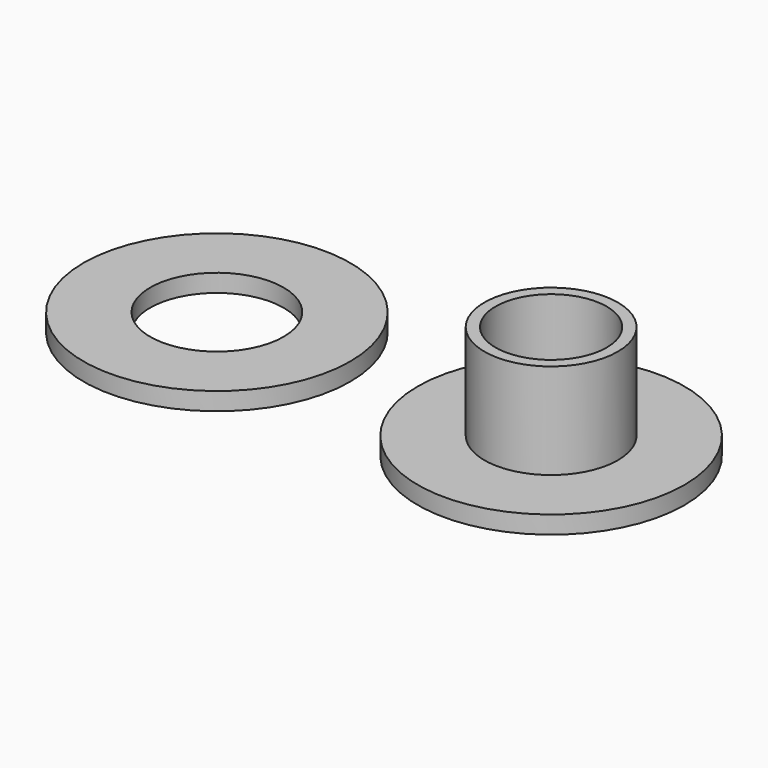
from build123d import *

# Parameters (mm, degrees)
F0_R     = 38.1
F0_R_2   = 19.05
F1_DEPTH = 5.08
F0_R_3   = 15.875
F2_DEPTH = 32.385


with BuildPart() as f1:
    # F0 (on Top) → F1 (new body)
    with BuildSketch(Plane.XY):
        with Locations((34.040067, 0)):
            Circle(F0_R)
        with Locations((34.040067, 0)):
            Circle(F0_R_2, mode=Mode.SUBTRACT)
        with Locations((-61.412497, 0)):
            Circle(F0_R)
        with Locations((-61.412497, 0)):
            Circle(F0_R_2, mode=Mode.SUBTRACT)
    extrude(amount=F1_DEPTH)

    # F0 (on Top) → F2 (join)
    with BuildSketch(Plane.XY):
        with Locations((34.040067, 0)):
            Circle(F0_R_2)
        with Locations((34.040067, 0)):
            Circle(F0_R_3, mode=Mode.SUBTRACT)
    extrude(amount=F2_DEPTH)


solid = f1.part
